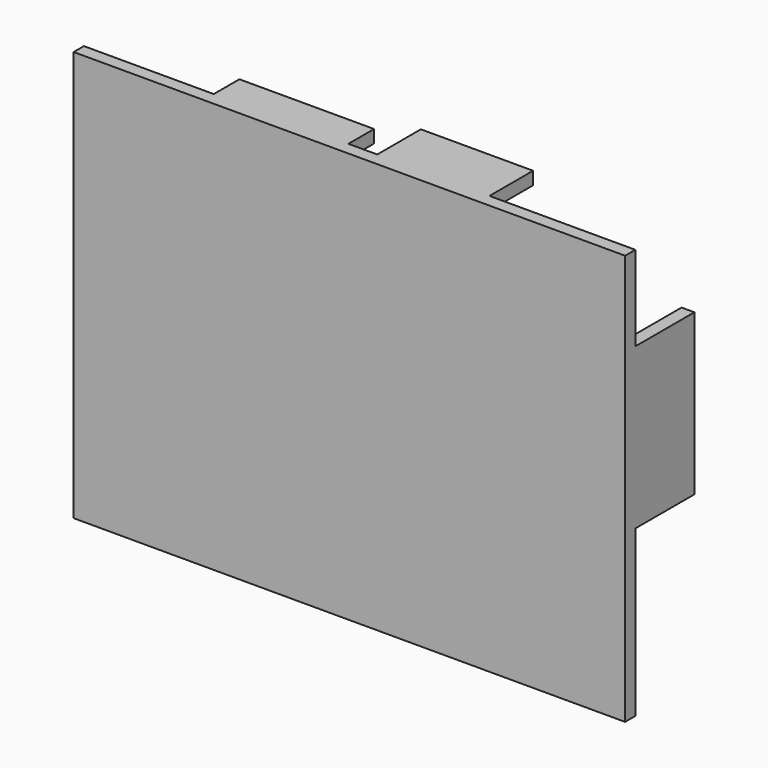
from build123d import *

# Parameters (mm, degrees)
F0_W     = 17.5
F0_H     = 2
F0_W_2   = 18.5
F0_W_3   = 4.5
F0_W_4   = 2
F0_H_2   = 25
F0_W_5   = 21
F1_DEPTH = 2
F2_DEPTH = 14.5
F3_DEPTH = 11.5
F4_DEPTH = 8.5
F5_DEPTH = 5


with BuildPart() as f1:
    # F0 (on Front) → F1 (new body)
    with BuildSketch(Plane.XZ):
        with Locations((11.5, 31)):
            Rectangle(F0_W, F0_H)
        with Locations((2.5, -31)):
            Rectangle(F0_W_2, F0_H)
        Polygon((43, 18.75), (43, 32), (20.25, 32), (20.25, 30), (41, 30), (41, 18.75), align=None)
        with Locations((0.5, 31)):
            Rectangle(F0_W_3, F0_H)
        with Locations((42, 6.25)):
            Rectangle(F0_W_4, F0_H_2)
        Polygon((43, -32), (43, -6.25), (41, -6.25), (41, -30), (11.75, -30), (11.75, -32), align=None)
        with Locations((-12.25, 31)):
            Rectangle(F0_W_5, F0_H)
        Polygon((-22.75, 30), (-22.75, 32), (-43, 32), (-43, -32), (-6.75, -32), (-6.75, -30), (-41, -30), (-41, 30), align=None)
        Polygon((41, 30), (20.25, 30), (2.75, 30), (-1.75, 30), (-22.75, 30), (-41, 30), (-41, -30), (-6.75, -30), (11.75, -30), (41, -30), (41, -6.25), (41, 18.75), align=None)
    extrude(amount=F1_DEPTH)

    # F0 (on Front) → F2 (join)
    with BuildSketch(Plane.XZ):
        with Locations((2.5, -31)):
            Rectangle(F0_W_2, F0_H)
    extrude(amount=-F2_DEPTH)

    # F0 (on Front) → F3 (join)
    with BuildSketch(Plane.XZ):
        with Locations((42, 6.25)):
            Rectangle(F0_W_4, F0_H_2)
    extrude(amount=-F3_DEPTH)

    # F0 (on Front) → F4 (join)
    with BuildSketch(Plane.XZ):
        with Locations((11.5, 31)):
            Rectangle(F0_W, F0_H)
    extrude(amount=-F4_DEPTH)

    # F0 (on Front) → F5 (join)
    with BuildSketch(Plane.XZ):
        with Locations((-12.25, 31)):
            Rectangle(F0_W_5, F0_H)
    extrude(amount=-F5_DEPTH)


solid = f1.part
